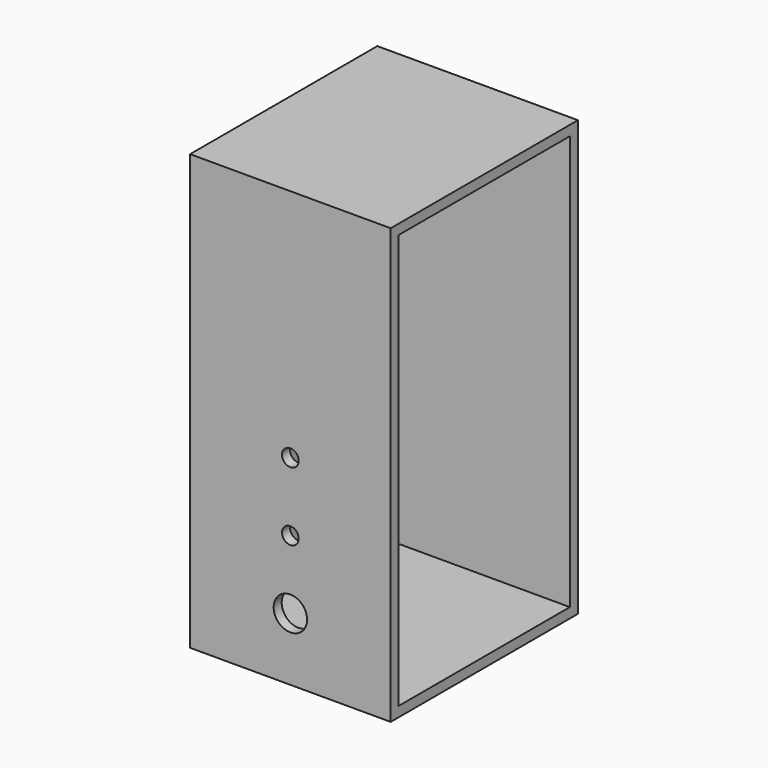
from build123d import *

# Parameters (mm, degrees)
F0_W     = 70
F0_H     = 130
F1_DEPTH = 60
F2_T     = -3
F3_R     = 5
F3_R_2   = 2.5
F4_DEPTH = 3


with BuildPart() as f1:
    # F0 (on Right) → F1 (new body)
    with BuildSketch(Plane.YZ):
        with Locations((30.021758, 56.224507)):
            Rectangle(F0_W, F0_H)
    extrude(amount=F1_DEPTH)

    # F2
    f2_openings = [f1.faces().sort_by_distance(p)[0] for p in [
        (60, 30.021758, 56.224507),
    ]]
    offset(amount=F2_T, openings=f2_openings)

    # F3 (on face) → F4 (cut, through all)
    with BuildSketch(Plane.XZ.offset(4.978242)):
        with Locations((30, 10.026326)):
            Circle(F3_R)
        with Locations((30, 30.526326)):
            Circle(F3_R_2)
        with Locations((30, 51.026326)):
            Circle(F3_R_2)
    extrude(amount=-F4_DEPTH, mode=Mode.SUBTRACT)


solid = f1.part
